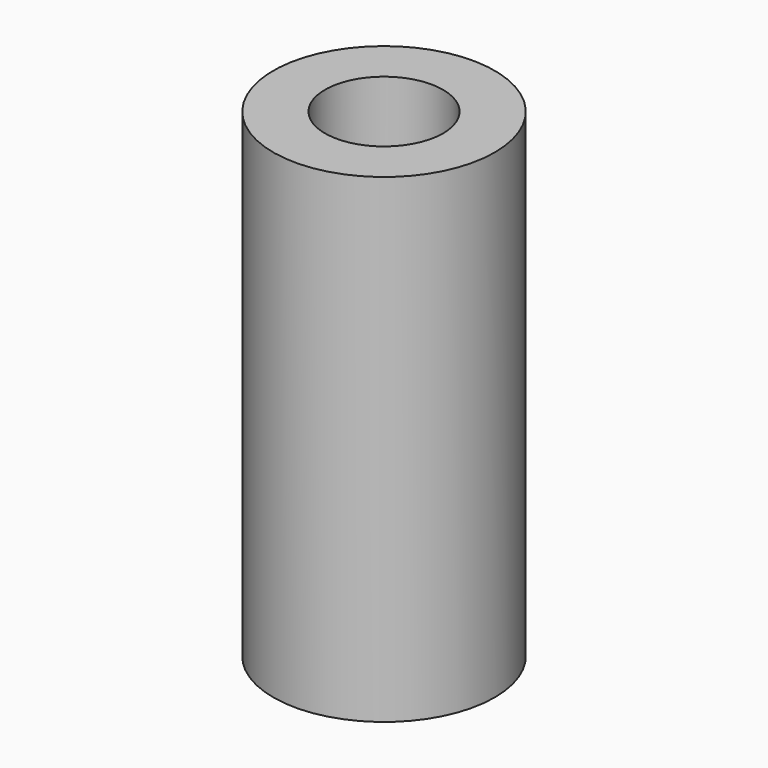
from build123d import *

# Parameters (mm, degrees)
SKETCH_R     = 3
PAD_DEPTH    = 13
SKETCH001_R  = 1.6
POCKET_DEPTH = 13


with BuildPart() as part:
    # Sketch → Pad (new body)
    with BuildSketch(Plane.XY):
        Circle(SKETCH_R)
    extrude(amount=PAD_DEPTH)

    # Sketch001 (on Face3 of Pad) → Pocket (cut)
    with BuildSketch(Plane.XY.offset(13)):
        Circle(SKETCH001_R)
    extrude(amount=-POCKET_DEPTH, mode=Mode.SUBTRACT)


solid = part.part
